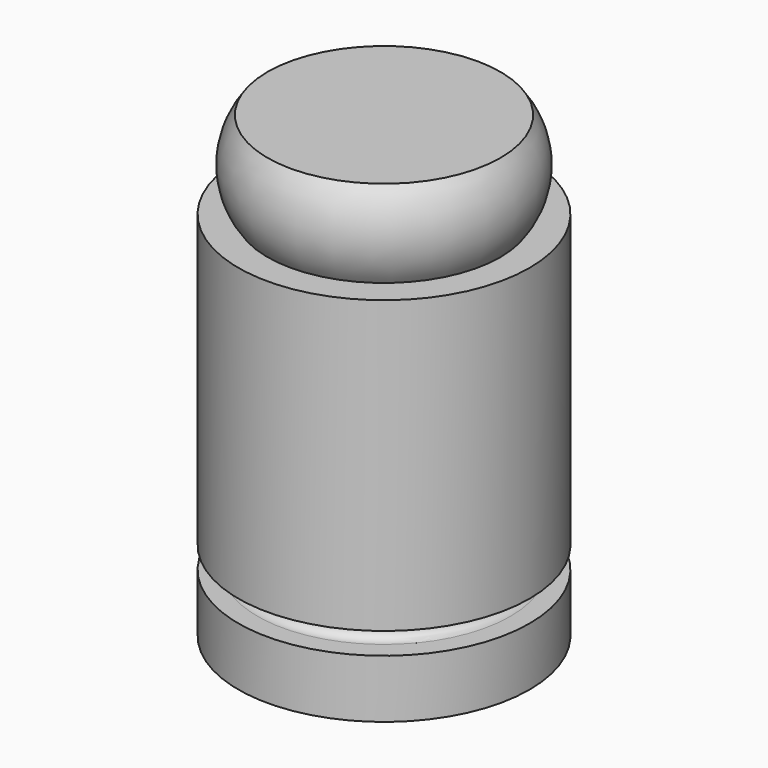
from build123d import *

# Parameters (mm, degrees)
F0_W = 10.16
F0_H = 1.905
F2_R = 0.8636


with BuildPart() as f1:
    # F0 (on Front) → F1 (revolve)
    with BuildSketch(Plane.XZ):
        with BuildLine():
            Line((0, 40.005), (0, 32.385))
            Line((0, 32.385), (10.16, 32.385))
            ThreePointArc((10.16, 32.385), (11.43, 36.195), (10.16, 40.005))
            Line((10.16, 40.005), (0, 40.005))
        make_face()
        Polygon((0, 32.385), (0, 6.985), (10.16, 6.985), (12.7, 6.985), (12.7, 32.385), (10.16, 32.385), align=None)
        with Locations((5.08, 6.0325)):
            Rectangle(F0_W, F0_H)
        Polygon((0, 5.08), (0, 0), (12.7, 0), (12.7, 5.08), (10.16, 5.08), align=None)
    revolve(axis=Axis((0, 0, 19.685), (0, 0, 1)))

    # F2
    f2_edges = [f1.edges().sort_by_distance(p)[0] for p in [
        (-10.16, 0, 6.985),
        (-10.16, 0, 5.08),
    ]]
    fillet(f2_edges, radius=F2_R)


solid = f1.part
